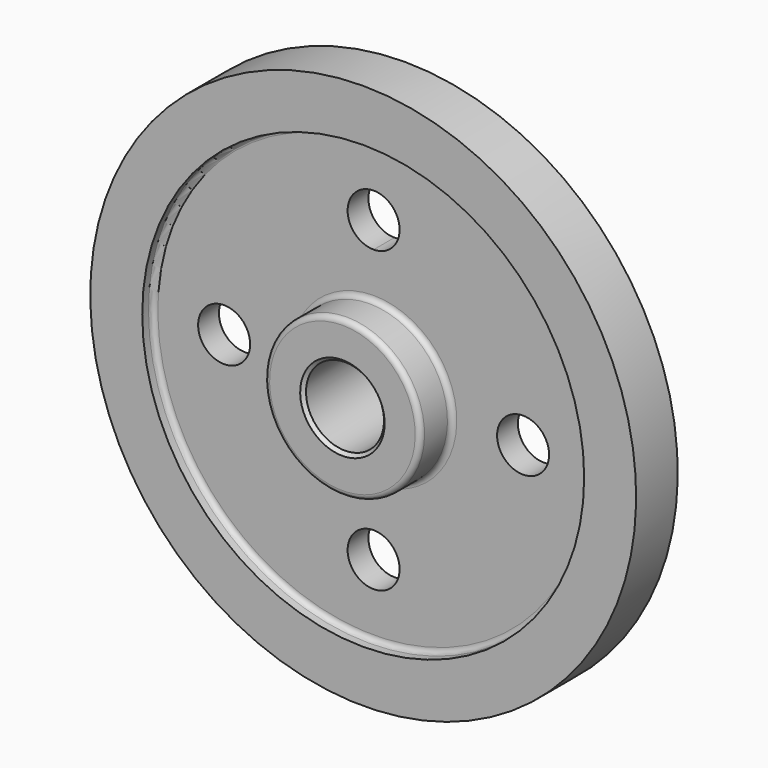
from build123d import *

# Parameters (mm, degrees)
F2_R     = 12.7
F3_DEPTH = 25.4
F4_R     = 2.54
F5_SIZE  = 1.5875


with BuildPart() as f1:
    # F0 (on Right) → F1 (revolve)
    with BuildSketch(Plane.YZ):
        Polygon((12.7, 133.35), (0, 133.35), (0, 38.1), (0, 19.05), (12.7, 19.05), (25.4, 19.05), (25.4, 38.1), (12.7, 38.1), (6.35, 38.1), (6.35, 107.95), (12.7, 107.95), align=None)
        Polygon((0, 38.1), (0, 133.35), (-12.7, 133.35), (-12.7, 107.95), (-6.35, 107.95), (-6.35, 38.1), (-12.7, 38.1), (-25.4, 38.1), (-25.4, 19.05), (-12.7, 19.05), (0, 19.05), align=None)
    revolve(axis=Axis((0, 12.7, 0), (0, 1, 0)))

    # F2 (on face) → F3 (cut)
    with BuildSketch(Plane.XZ.offset(6.35)):
        with BuildLine():
            ThreePointArc((12.7, 73.025), (-8.980256, 82.005256), (0, 60.325))
            ThreePointArc((0, 60.325), (8.980256, 64.044744), (12.7, 73.025))
        make_face()
        with Locations((73.025, 0)):
            Circle(F2_R)
        with Locations((0, -73.025)):
            Circle(F2_R)
        with Locations((-73.025, 0)):
            Circle(F2_R)
    extrude(amount=-F3_DEPTH, mode=Mode.SUBTRACT)

    # F4
    f4_edges = [f1.edges().sort_by_distance(p)[0] for p in [
        (0, -6.35, -107.95),
        (0, -6.35, -38.1),
        (0, -25.4, -38.1),
        (0, 6.35, -38.1),
        (0, 25.4, -38.1),
        (0, 12.7, -107.95),
    ]]
    fillet(f4_edges, radius=F4_R)

    # F5
    f5_edges = [f1.edges().sort_by_distance(p)[0] for p in [
        (0, 25.4, -19.05),
        (0, -25.4, -19.05),
    ]]
    chamfer(f5_edges, length=F5_SIZE)


solid = f1.part
